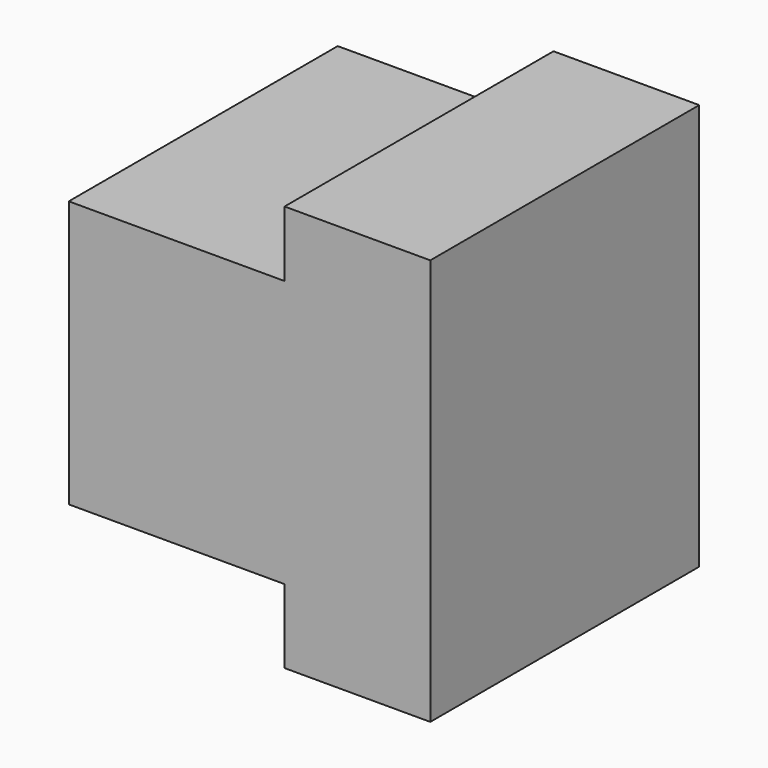
from build123d import *

# Parameters (mm, degrees)
F1_W     = 34.6844289452
F1_H     = 96.7087857425
F1_W_2   = 51.3522233814
F1_H_2   = 63.5
F2_DEPTH = 80.01


with BuildPart() as f2:
    # F1 (on face) → F2 (new body)
    with BuildSketch(Plane.XZ):
        with Locations((34.0491002426, -0.9898003191)):
            Rectangle(F1_W, F1_H)
        with Locations((-8.9692259207, 0)):
            Rectangle(F1_W_2, F1_H_2)
    extrude(amount=F2_DEPTH)


solid = f2.part
